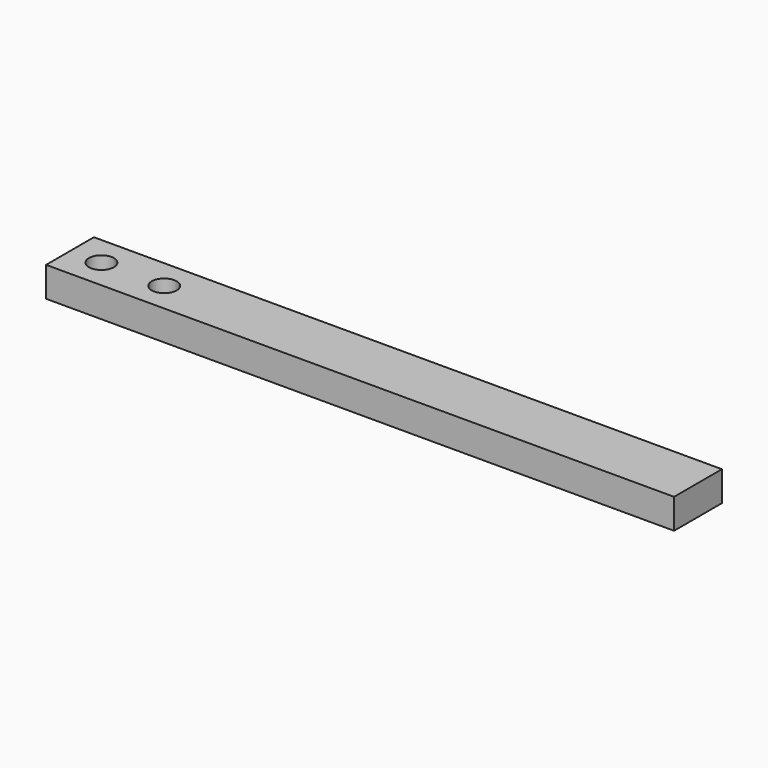
from build123d import *

# Parameters (mm, degrees)
SKETCH_W  = 400
SKETCH_H  = 38.1
SKETCH_R  = 7.9375
PAD_DEPTH = 19.05


with BuildPart() as part:
    # Sketch → Pad (new body)
    with BuildSketch(Plane.XY):
        with Locations((200, 19.05)):
            Rectangle(SKETCH_W, SKETCH_H)
        with Locations((20, 19.05)):
            Circle(SKETCH_R, mode=Mode.SUBTRACT)
        with Locations((60, 19.05)):
            Circle(SKETCH_R, mode=Mode.SUBTRACT)
    extrude(amount=PAD_DEPTH)


solid = part.part
